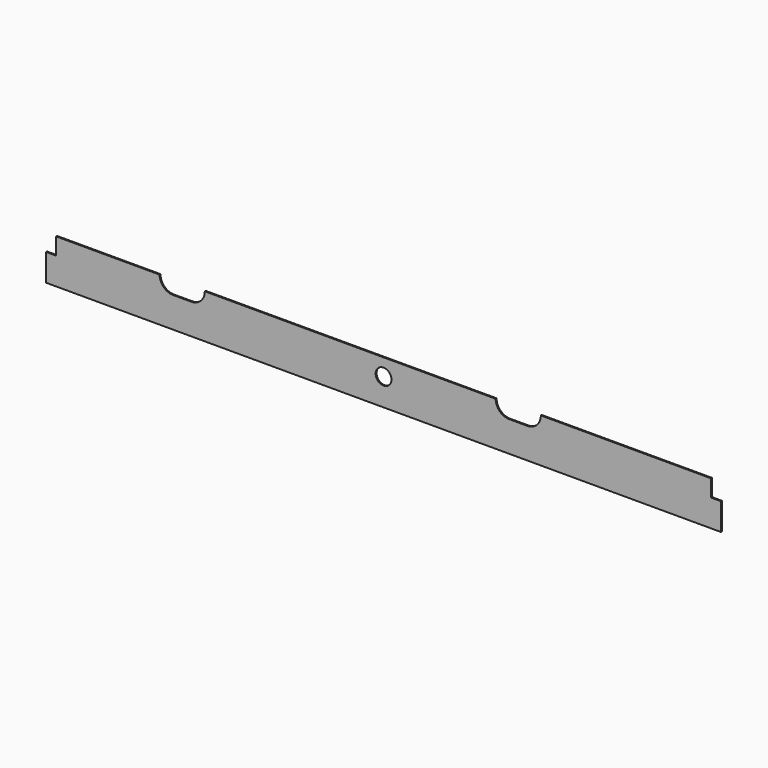
from build123d import *

# Parameters (mm, degrees)
F0_R     = 14
F1_DEPTH = 2


with BuildPart() as f1:
    # F0 (on Front) → F1 (new body)
    with BuildSketch(Plane.XZ):
        with BuildLine():
            Line((-597.5, -39), (597.5, -39))
            Line((597.5, -39), (597.5, 9))
            Line((597.5, 9), (579.5, 9))
            Line((579.5, 9), (579.5, 39))
            Line((579.5, 39), (278.5, 39))
            ThreePointArc((278.5, 39), (271.470563, 22.029437), (254.5, 15))
            Line((254.5, 15), (222.5, 15))
            ThreePointArc((222.5, 15), (205.529437, 22.029437), (198.5, 39))
            Line((198.5, 39), (-316.5, 39))
            ThreePointArc((-316.5, 39), (-323.529437, 22.029437), (-340.5, 15))
            Line((-340.5, 15), (-372.5, 15))
            ThreePointArc((-372.5, 15), (-389.470563, 22.029437), (-396.5, 39))
            Line((-396.5, 39), (-579.5, 39))
            Line((-579.5, 39), (-579.5, 9))
            Line((-579.5, 9), (-597.5, 9))
            Line((-597.5, 9), (-597.5, -39))
        make_face()
        with Locations((0, 9)):
            Circle(F0_R, mode=Mode.SUBTRACT)
    extrude(amount=F1_DEPTH)


solid = f1.part
